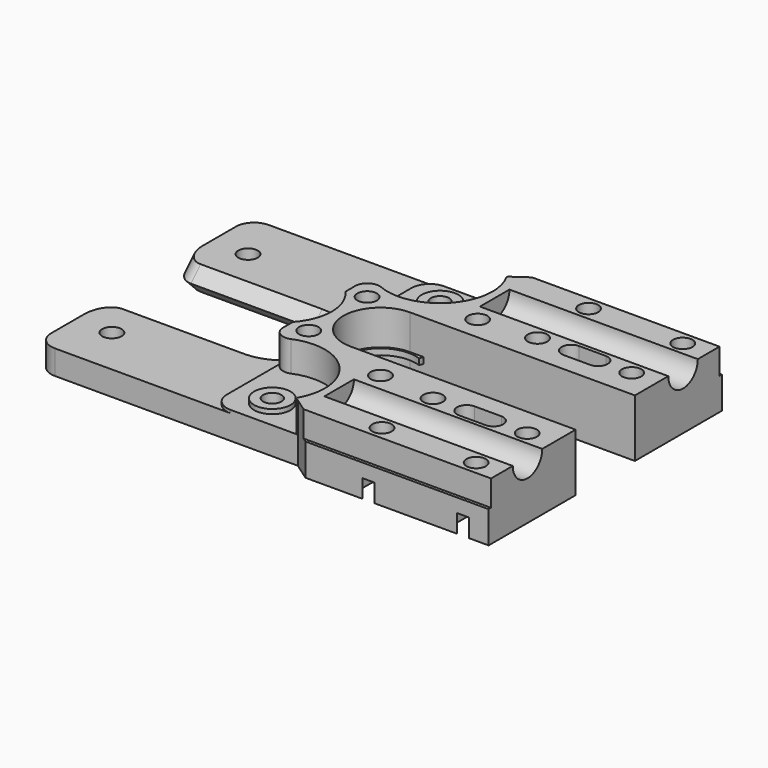
from build123d import *

# Parameters (mm, degrees)
PAD_DEPTH            = 46
PAD_DEPTH_BACK       = 30
SKETCH009_R          = 8.650139
POCKET006_DEPTH      = 4.25
SKETCH011_R          = 1.5
POCKET008_DEPTH      = 9.501
POCKET008_DEPTH_BACK = 0.001
SKETCH010_R          = 8.650139
SKETCH010_R_2        = 3
POCKET007_DEPTH      = 5
SKETCH005_R          = 5.8
POCKET002_DEPTH      = 9.501
POCKET002_DEPTH_BACK = 0.001
SKETCH006_R          = 6.1
POCKET003_DEPTH      = 5.75
POCKET004_DEPTH      = 9.501
POCKET004_DEPTH_BACK = 0.001
SKETCH008_W          = 4
SKETCH008_H          = 12.2
POCKET005_DEPTH      = 5.75
POCKET009_DEPTH      = 9.501
POCKET009_DEPTH_BACK = 0.001
POCKET_DEPTH         = 2.751
SKETCH014_R          = 3.035
POCKET010_DEPTH      = 31.001
PAD001_DEPTH         = 9.5
SKETCH017_R          = 1.6
POCKET011_DEPTH      = 9.501
SKETCH018_W          = 100
SKETCH018_H          = 100
POCKET012_DEPTH      = 5.501
SKETCH020_R          = 8
SKETCH019_R          = 6
SKETCH021_R          = 8
POCKET013_DEPTH      = 5.501
SKETCH023_W          = 100
SKETCH023_H          = 16
SKETCH022_W          = 100
SKETCH022_H          = 12
SKETCH024_W          = 100
SKETCH024_H          = 16
SKETCH025_R          = 1.6
POCKET014_DEPTH      = 9.501
POCKET015_DEPTH      = 3
FILLET_R             = 3
FILLET001_R          = 2
FILLET002_R          = 0.43
FILLET003_R          = 3
SKETCH027_W          = 50
SKETCH027_H          = 0.5
POCKET016_DEPTH      = 4.25


with BuildPart() as part:
    # Sketch → Pad (new body, two sides)
    with BuildSketch(Plane.YZ) as pad_sk:
        Polygon((0, -9.5), (22, -9.5), (22, 0), (-22, 0), (-22, -9.5), align=None)
    extrude(amount=PAD_DEPTH)
    extrude(pad_sk.sketch, amount=-PAD_DEPTH_BACK)

    # Sketch009 → Pocket006 (cut, symmetric)
    with BuildSketch(Plane.XY):
        with Locations((5, -17.25)):
            Circle(SKETCH009_R)
        with Locations((5, 17.25)):
            Circle(SKETCH009_R)
    extrude(amount=POCKET006_DEPTH, both=True, mode=Mode.SUBTRACT)

    # Sketch011 → Pocket008 (cut, two sides)
    with BuildSketch(Plane.XY) as pocket008_sk:
        with Locations((5, 17.25)):
            Circle(SKETCH011_R)
        with Locations((5, -17.25)):
            Circle(SKETCH011_R)
    extrude(amount=-POCKET008_DEPTH, mode=Mode.SUBTRACT)
    extrude(pocket008_sk.sketch, amount=POCKET008_DEPTH_BACK, mode=Mode.SUBTRACT)

    # Sketch010 → Pocket007 (cut, symmetric)
    with BuildSketch(Plane.XY):
        with Locations((5, -17.25)):
            Circle(SKETCH010_R)
        with Locations((5, -17.25)):
            Circle(SKETCH010_R_2, mode=Mode.SUBTRACT)
        with Locations((5, 17.25)):
            Circle(SKETCH010_R)
        with Locations((5, 17.25)):
            Circle(SKETCH010_R_2, mode=Mode.SUBTRACT)
    extrude(amount=POCKET007_DEPTH, both=True, mode=Mode.SUBTRACT)

    # Sketch005 → Pocket002 (cut, two sides)
    with BuildSketch(Plane.XY) as pocket002_sk:
        with Locations((9, 0)):
            Circle(SKETCH005_R)
    extrude(amount=-POCKET002_DEPTH, mode=Mode.SUBTRACT)
    extrude(pocket002_sk.sketch, amount=POCKET002_DEPTH_BACK, mode=Mode.SUBTRACT)

    # Sketch006 → Pocket003 (cut)
    with BuildSketch(Plane.XY):
        with Locations((9, 0)):
            Circle(SKETCH006_R)
    extrude(amount=-POCKET003_DEPTH, mode=Mode.SUBTRACT)

    # Sketch007 → Pocket004 (cut, two sides)
    with BuildSketch(Plane.XY) as pocket004_sk:
        Polygon((9, 0), (11.086323, 5.732125), (11.220218, 6.1), (111.220218, 6.1), (111.220218, -6.1), (11.220218, -6.1), (11.086323, -5.732125), align=None)
    extrude(amount=-POCKET004_DEPTH, mode=Mode.SUBTRACT)
    extrude(pocket004_sk.sketch, amount=POCKET004_DEPTH_BACK, mode=Mode.SUBTRACT)

    # Sketch008 → Pocket005 (cut)
    with BuildSketch(Plane.XY):
        with Locations((11, 0)):
            Rectangle(SKETCH008_W, SKETCH008_H)
    extrude(amount=-POCKET005_DEPTH, mode=Mode.SUBTRACT)

    # Sketch012 → Pocket009 (cut, two sides)
    with BuildSketch(Plane.XY) as pocket009_sk:
        with BuildLine():
            ThreePointArc((31.8, 12.35), (30.2, 10.75), (31.8, 9.15))
            Line((31.8, 9.15), (36.2, 9.15))
            ThreePointArc((36.2, 9.15), (37.8, 10.75), (36.2, 12.35))
            Line((31.8, 12.35), (36.2, 12.35))
        make_face()
        with BuildLine():
            ThreePointArc((31.8, -9.15), (30.2, -10.75), (31.8, -12.35))
            Line((31.8, -12.35), (36.2, -12.35))
            ThreePointArc((36.2, -12.35), (37.8, -10.75), (36.2, -9.15))
            Line((31.8, -9.15), (36.2, -9.15))
        make_face()
    extrude(amount=-POCKET009_DEPTH, mode=Mode.SUBTRACT)
    extrude(pocket009_sk.sketch, amount=POCKET009_DEPTH_BACK, mode=Mode.SUBTRACT)

    # Sketch013 (on DatumPlane) → Pocket (cut, through all)
    with BuildSketch(Plane.XY.offset(-6.75)):
        with BuildLine():
            ThreePointArc((9, 6.1), (2.9, 0), (9, -6.1))
            Line((9, -6.1), (34, -6.1))
            Line((34, 6.1), (34, -6.1))
            Line((9, 6.1), (34, 6.1))
        make_face()
    extrude(amount=-POCKET_DEPTH, mode=Mode.SUBTRACT)

    # Sketch014 (on DatumPlane) → Pocket010 (cut, through all)
    with BuildSketch(Plane.YZ.offset(15)):
        with Locations((-16, 0)):
            Circle(SKETCH014_R)
        with Locations((16, 0)):
            Circle(SKETCH014_R)
    extrude(amount=POCKET010_DEPTH, mode=Mode.SUBTRACT)

    # Sketch016 → Pad001 (join)
    with BuildSketch(Plane.XY):
        Polygon((13, -22), (46, -22), (46, -24), (15.856296, -24), align=None)
        Polygon((13, 22), (46, 22), (46, 24), (15.856296, 24), align=None)
    extrude(amount=-PAD001_DEPTH)

    # Sketch017 → Pocket011 (cut, through all)
    with BuildSketch(Plane.XY):
        with Locations((26.25, -10.75)):
            Circle(SKETCH017_R)
        with Locations((26.25, -21.25)):
            Circle(SKETCH017_R)
        with Locations((41.75, -21.25)):
            Circle(SKETCH017_R)
        with Locations((41.75, -10.75)):
            Circle(SKETCH017_R)
        with Locations((26.25, 10.75)):
            Circle(SKETCH017_R)
        with Locations((41.75, 10.75)):
            Circle(SKETCH017_R)
        with Locations((26.25, 21.25)):
            Circle(SKETCH017_R)
        with Locations((41.75, 21.25)):
            Circle(SKETCH017_R)
        with Locations((17, -10)):
            Circle(SKETCH017_R)
        with Locations((17, 10)):
            Circle(SKETCH017_R)
        with Locations((2, -6)):
            Circle(SKETCH017_R)
        with Locations((2, 6)):
            Circle(SKETCH017_R)
    extrude(amount=-POCKET011_DEPTH, mode=Mode.SUBTRACT)

    # Sketch018 (on DatumPlane) → Pocket012 (cut, through all)
    with BuildSketch(Plane.XY.offset(-5.5)):
        with Locations((-51.1, 0)):
            Rectangle(SKETCH018_W, SKETCH018_H)
    extrude(amount=POCKET012_DEPTH, mode=Mode.SUBTRACT)

    # Sketch020 (on DatumPlane) → SubtractiveLoft section 0
    with BuildSketch(Plane.XY.offset(-5.5)):
        with Locations((-7, 0)):
            Circle(SKETCH020_R)
    # Sketch019 (on DatumPlane) → SubtractiveLoft section 1
    with BuildSketch(Plane.XY.offset(-7.5)):
        with Locations((-7, 0)):
            Circle(SKETCH019_R)
    # Sketch021 (on DatumPlane) → SubtractiveLoft section 2
    with BuildSketch(Plane.XY.offset(-9.5)):
        with Locations((-7, 0)):
            Circle(SKETCH021_R)
    loft(ruled=True, mode=Mode.SUBTRACT)

    # Sketch020 (on DatumPlane) → Pocket013 (cut, through all)
    with BuildSketch(Plane.XY.offset(-5.5)):
        with Locations((-7, 0)):
            Circle(SKETCH020_R)
    extrude(amount=POCKET013_DEPTH, mode=Mode.SUBTRACT)

    # Sketch023 (on DatumPlane) → SubtractiveLoft001 section 0
    with BuildSketch(Plane.XY.offset(-5.5)):
        with Locations((-57, 0)):
            Rectangle(SKETCH023_W, SKETCH023_H)
    # Sketch022 (on DatumPlane) → SubtractiveLoft001 section 1
    with BuildSketch(Plane.XY.offset(-7.5)):
        with Locations((-57, 0)):
            Rectangle(SKETCH022_W, SKETCH022_H)
    # Sketch024 (on DatumPlane) → SubtractiveLoft001 section 2
    with BuildSketch(Plane.XY.offset(-9.5)):
        with Locations((-57, 0)):
            Rectangle(SKETCH024_W, SKETCH024_H)
    loft(ruled=True, mode=Mode.SUBTRACT)

    # Sketch025 → Pocket014 (cut, through all)
    with BuildSketch(Plane.XY):
        with Locations((-24, -14)):
            Circle(SKETCH025_R)
        with Locations((-24, 14)):
            Circle(SKETCH025_R)
    extrude(amount=-POCKET014_DEPTH, mode=Mode.SUBTRACT)

    # Sketch026 (on DatumPlane) → Pocket015 (cut)
    with BuildSketch(Plane.XY.offset(-9.5)):
        Polygon((26.25, 24.569764), (23.375, 22.909882), (23.375, 19.590118), (26.25, 17.930236), (29.125, 19.590118), (29.125, 22.909882), align=None)
        Polygon((44.625, 22.909882), (41.75, 24.569764), (38.875, 22.909882), (38.875, 19.590118), (41.75, 17.930236), (44.625, 19.590118), align=None)
        Polygon((44.625, 9.090118), (44.625, 12.409882), (41.75, 14.069764), (38.875, 12.409882), (38.875, 9.090118), (41.75, 7.430236), align=None)
        Polygon((29.125, 9.090118), (29.125, 12.409882), (26.25, 14.069764), (23.375, 12.409882), (23.375, 9.090118), (26.25, 7.430236), align=None)
        Polygon((29.125, -12.409882), (29.125, -9.090118), (26.25, -7.430236), (23.375, -9.090118), (23.375, -12.409882), (26.25, -14.069764), align=None)
        Polygon((41.75, -14.069764), (44.625, -12.409882), (44.625, -9.090118), (41.75, -7.430236), (38.875, -9.090118), (38.875, -12.409882), align=None)
        Polygon((44.625, -22.909882), (44.625, -19.590118), (41.75, -17.930236), (38.875, -19.590118), (38.875, -22.909882), (41.75, -24.569764), align=None)
        Polygon((29.125, -19.590118), (26.25, -17.930236), (23.375, -19.590118), (23.375, -22.909882), (26.25, -24.569764), (29.125, -22.909882), align=None)
    extrude(amount=POCKET015_DEPTH, mode=Mode.SUBTRACT)

    # Fillet
    fillet_edges = [part.edges().sort_by_distance(p)[0] for p in [
        (-30, -22, -7.5),
        (-30, 22, -7.5),
        (-30, 7, -6.5),
        (-30, 7, -8.5),
        (-30, -7, -6.5),
        (-30, -7, -8.5),
    ]]
    fillet(fillet_edges, radius=FILLET_R)

    # Fillet001
    fillet001_edges = [part.edges().sort_by_distance(p)[0] for p in [
        (-1.1, -11.1169, -2.125),
        (-1.1, 11.1169, -2.125),
    ]]
    fillet(fillet001_edges, radius=FILLET001_R)

    # Fillet002
    fillet002_edges = [part.edges().sort_by_distance(p)[0] for p in [
        (12.229275, -22, -2.125),
        (12.229275, 22, -2.125),
    ]]
    fillet(fillet002_edges, radius=FILLET002_R)

    # Fillet003
    fillet003_edges = [part.edges().sort_by_distance(p)[0] for p in [
        (-1.1, -22, -5.25),
        (-1.1, 22, -5.25),
    ]]
    fillet(fillet003_edges, radius=FILLET003_R)

    # Sketch027 → Pocket016 (cut, symmetric)
    with BuildSketch(Plane.XY):
        with Locations((21, -23.75)):
            Rectangle(SKETCH027_W, SKETCH027_H)
        with Locations((21, 23.75)):
            Rectangle(SKETCH027_W, SKETCH027_H)
    extrude(amount=POCKET016_DEPTH, both=True, mode=Mode.SUBTRACT)


solid = part.part
